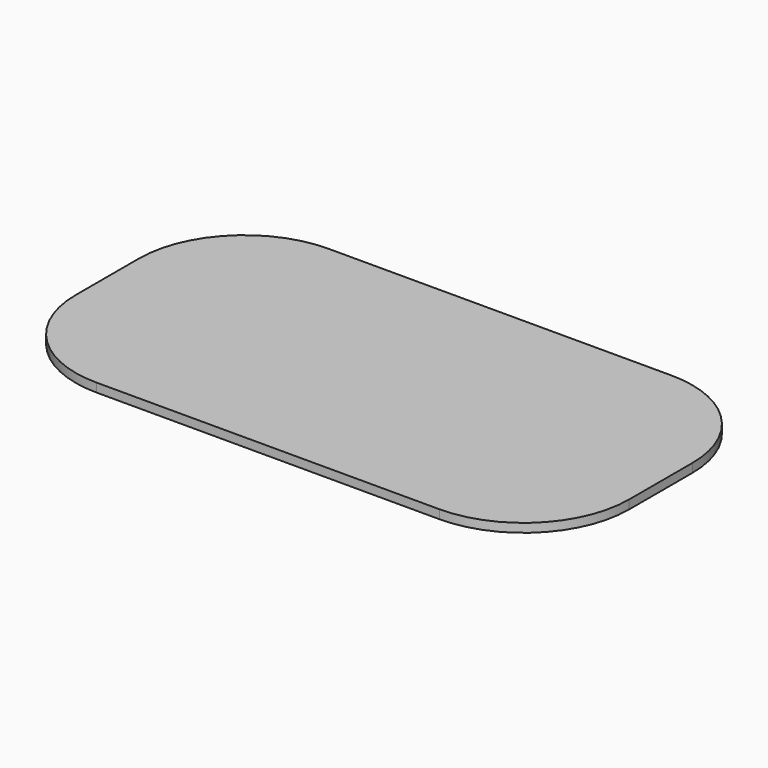
from build123d import *

# Parameters (mm, degrees)
F1_DEPTH = 1


with BuildPart() as f1:
    # F0 (on Top) → F1 (new body)
    with BuildSketch(Plane.XY):
        with BuildLine():
            Line((19.5, 16.5), (-19.5, 16.5))
            ThreePointArc((-19.5, 16.5), (-27.985281, 12.985281), (-31.5, 4.5))
            Line((-31.5, 4.5), (-31.5, -4.5))
            ThreePointArc((-31.5, -4.5), (-30.258032, -9.816461), (-26.789208, -14.032442))
            Line((-26.789208, -14.032442), (26.789208, 14.032442))
            ThreePointArc((26.789208, 14.032442), (23.347772, 15.866383), (19.5, 16.5))
        make_face()
        with BuildLine():
            ThreePointArc((31.5, 4.5), (30.258032, 9.816461), (26.789208, 14.032442))
            Line((26.789208, 14.032442), (-26.789208, -14.032442))
            ThreePointArc((-26.789208, -14.032442), (-23.347772, -15.866383), (-19.5, -16.5))
            Line((-19.5, -16.5), (19.5, -16.5))
            ThreePointArc((19.5, -16.5), (27.985281, -12.985281), (31.5, -4.5))
            Line((31.5, -4.5), (31.5, 4.5))
        make_face()
    extrude(amount=F1_DEPTH)


solid = f1.part
